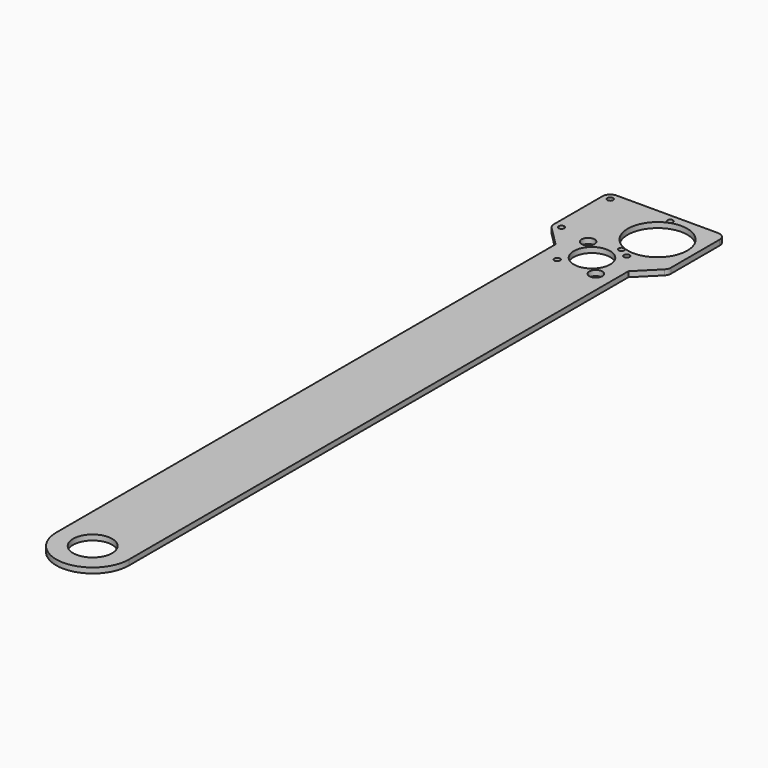
from build123d import *

# Parameters (mm, degrees)
F0_R     = 11.90625
F0_R_2   = 1.7272
F0_R_3   = 3.96875
F0_R_4   = 11.1125
F0_R_5   = 18.161005
F1_DEPTH = 3.2512
F2_R     = 4.7625


with BuildPart() as f1:
    # F0 (on Top) → F1 (new body)
    with BuildSketch(Plane.XY):
        with BuildLine():
            Line((-23.076002, 23.362691), (-23.076002, -18.600191))
            ThreePointArc((-23.076002, -18.600191), (-22.713478, -20.422721), (-21.681098, -21.967787))
            Line((-21.681098, -21.967787), (-9.507245, -34.14164))
            Line((-9.507245, -34.14164), (-9.507245, -415.14164))
            ThreePointArc((-9.507245, -415.14164), (12.717755, -437.36664), (34.942755, -415.14164))
            Line((34.942755, -415.14164), (34.942755, -34.14164))
            Line((34.942755, -34.14164), (47.116607, -21.967787))
            ThreePointArc((47.116607, -21.967787), (48.148987, -20.422721), (48.511511, -18.600191))
            Line((48.511511, -18.600191), (48.511511, 23.362691))
            Line((48.511511, 23.362691), (-23.076002, 23.362691))
        make_face()
        with Locations((12.717755, -415.14164)):
            Circle(F0_R, mode=Mode.SUBTRACT)
        with Locations((-18.313502, -18.600191)):
            Circle(F0_R_2, mode=Mode.SUBTRACT)
        with Locations((-18.313502, 18.600191)):
            Circle(F0_R_2, mode=Mode.SUBTRACT)
        with Locations((0.931168, -45.928226)):
            Circle(F0_R_2, mode=Mode.SUBTRACT)
        with Locations((0.931168, -22.355054)):
            Circle(F0_R_3, mode=Mode.SUBTRACT)
        with Locations((12.717755, -34.14164)):
            Circle(F0_R_4, mode=Mode.SUBTRACT)
        with Locations((24.504341, -45.928226)):
            Circle(F0_R_3, mode=Mode.SUBTRACT)
        with Locations((18.313502, -18.600191)):
            Circle(F0_R_2, mode=Mode.SUBTRACT)
        with Locations((18.313502, 18.600191)):
            Circle(F0_R_2, mode=Mode.SUBTRACT)
        with Locations((24.504341, -22.355054)):
            Circle(F0_R_2, mode=Mode.SUBTRACT)
        with Locations((25.435509, 0)):
            Circle(F0_R_5, mode=Mode.SUBTRACT)
    extrude(amount=F1_DEPTH)

    # F2
    f2_edges = [f1.edges().sort_by_distance(p)[0] for p in [
        (-23.076002, 23.362691, 1.6256),
        (48.511511, 23.362691, 1.6256),
    ]]
    fillet(f2_edges, radius=F2_R)


solid = f1.part
